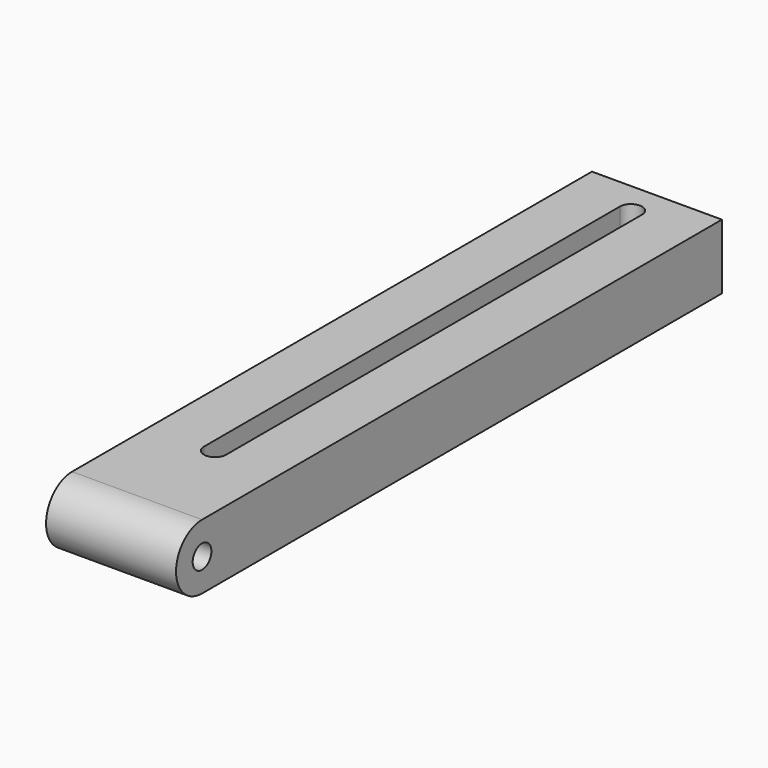
from build123d import *

# Parameters (mm, degrees)
SKETCH_R        = 1.8
PAD_DEPTH       = 20
POCKET_DEPTH    = 10
SKETCH002_W     = 4
SKETCH002_H     = 8
PAD001_DEPTH    = 10
SKETCH003_R     = 1.4
POCKET001_DEPTH = 5


with BuildPart() as part:
    # Sketch → Pad (new body)
    with BuildSketch(Plane.YZ):
        with BuildLine():
            ThreePointArc((0, 10), (-5, 5), (0, 0))
            Line((0, 0), (100, 0))
            Line((100, 0), (100, 10))
            Line((100, 10), (0, 10))
        make_face()
        with Locations((0, 5)):
            Circle(SKETCH_R, mode=Mode.SUBTRACT)
    extrude(amount=PAD_DEPTH)

    # Sketch001 → Pocket (cut)
    with BuildSketch(Plane.XY.offset(10)):
        with BuildLine():
            ThreePointArc((11.7, 95), (10, 96.7), (8.3, 95))
            Line((8.3, 15), (8.3, 95))
            ThreePointArc((8.3, 15), (10, 13.3), (11.7, 15))
            Line((11.7, 95), (11.7, 15))
        make_face()
    extrude(amount=-POCKET_DEPTH, mode=Mode.SUBTRACT)

    # Sketch002 → Pad001 (new body)
    with BuildSketch(Plane(origin=(0, 0, 0), x_dir=(1, 0, 0), z_dir=(0, 0, -1))):
        with Locations((2, -19)):
            Rectangle(SKETCH002_W, SKETCH002_H)
        with Locations((2, -50)):
            Rectangle(SKETCH002_W, SKETCH002_H)
    extrude(amount=PAD001_DEPTH)

    # Sketch003 → Pocket001 (cut)
    with BuildSketch(Plane(origin=(0, 0, 0), x_dir=(0, -1, 0), z_dir=(-1, 0, 0))):
        with Locations((-48.5, -6)):
            Circle(SKETCH003_R)
        with Locations((-20.5, -6)):
            Circle(SKETCH003_R)
    extrude(amount=-POCKET001_DEPTH, mode=Mode.SUBTRACT)


solid = part.part
